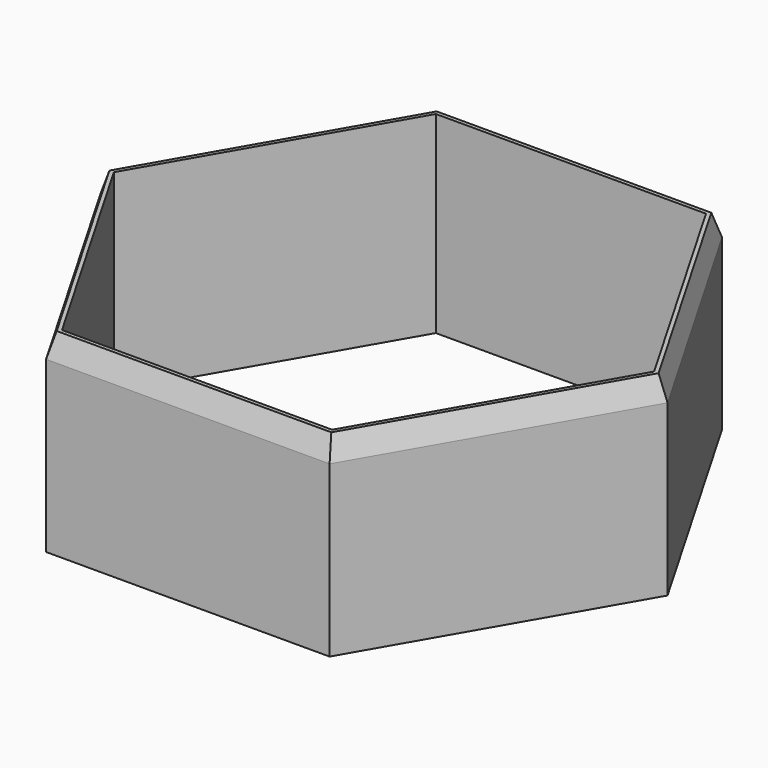
from build123d import *

# Parameters (mm, degrees)
F1_DEPTH = 25
F2_SIZE2 = 1
F2_SIZE  = 3


with BuildPart() as f1:
    # F0 (on Top) → F1 (new body)
    with BuildSketch(Plane.XY):
        Polygon((-36.73205, -0.023604), (-18.345584, -31.822691), (18.386467, -31.799087), (36.73205, 0.023604), (18.345584, 31.822691), (-18.386467, 31.799087), align=None)
        Polygon((-17.519478, 30.299644), (17.480522, 30.322135), (35, 0.022491), (17.519478, -30.299644), (-17.480522, -30.322135), (-35, -0.022491), align=None, mode=Mode.SUBTRACT)
    extrude(amount=F1_DEPTH)

    # F2
    f2_edges = [f1.edges().sort_by_distance(p)[0] for p in [
        (27.559259, -15.887742, 25),
        (0.020442, -31.810889, 25),
        (-27.538817, -15.923147, 25),
        (-27.559259, 15.887742, 25),
        (-0.020442, 31.810889, 25),
        (27.538817, 15.923147, 25),
    ]]
    chamfer(f2_edges, length=F2_SIZE, length2=F2_SIZE2)


solid = f1.part
